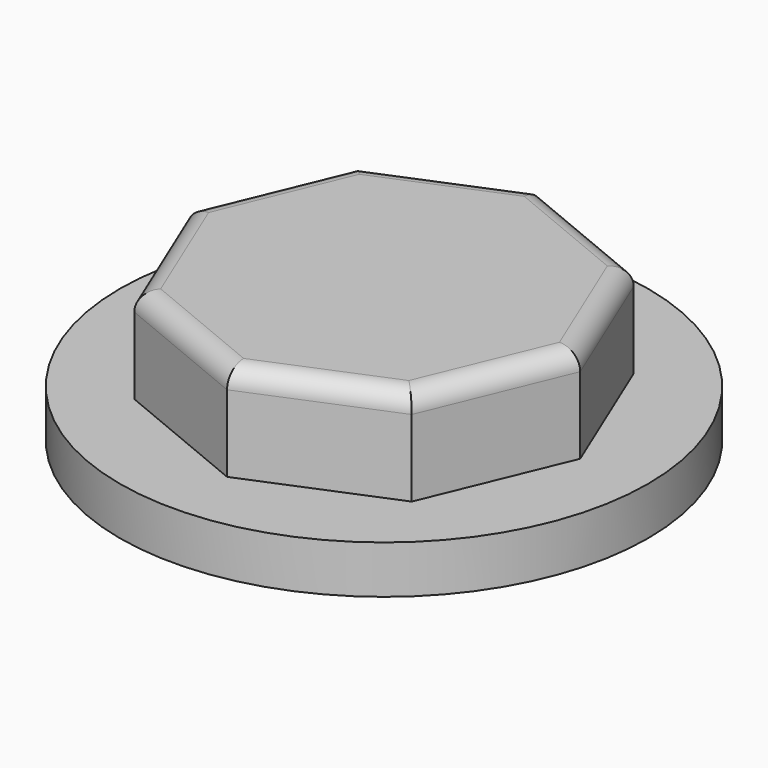
from build123d import *

# Parameters (mm, degrees)
F0_R     = 35
F1_DEPTH = 6.35
F3_DEPTH = 12.7
F4_R     = 2.54


with BuildPart() as f1:
    # F0 (on Top) → F1 (new body)
    with BuildSketch(Plane.XY):
        Circle(F0_R)
    extrude(amount=F1_DEPTH)

    # F2 (on face) → F3 (join)
    with BuildSketch(Plane.XY.offset(6.35)):
        Polygon((18.384776, -18.384776), (26, 0), (18.384776, 18.384776), (0, 26), (-18.384776, 18.384776), (-26, 0), (-18.384776, -18.384776), (0, -26), align=None)
    extrude(amount=F3_DEPTH)

    # F4
    f4_edges = [f1.edges().sort_by_distance(p)[0] for p in [
        (22.192388, -9.192388, 19.05),
        (22.192388, 9.192388, 19.05),
        (9.192388, 22.192388, 19.05),
        (-9.192388, 22.192388, 19.05),
        (9.192388, -22.192388, 19.05),
        (-9.192388, -22.192388, 19.05),
        (-22.192388, -9.192388, 19.05),
        (-22.192388, 9.192388, 19.05),
    ]]
    fillet(f4_edges, radius=F4_R)


solid = f1.part
